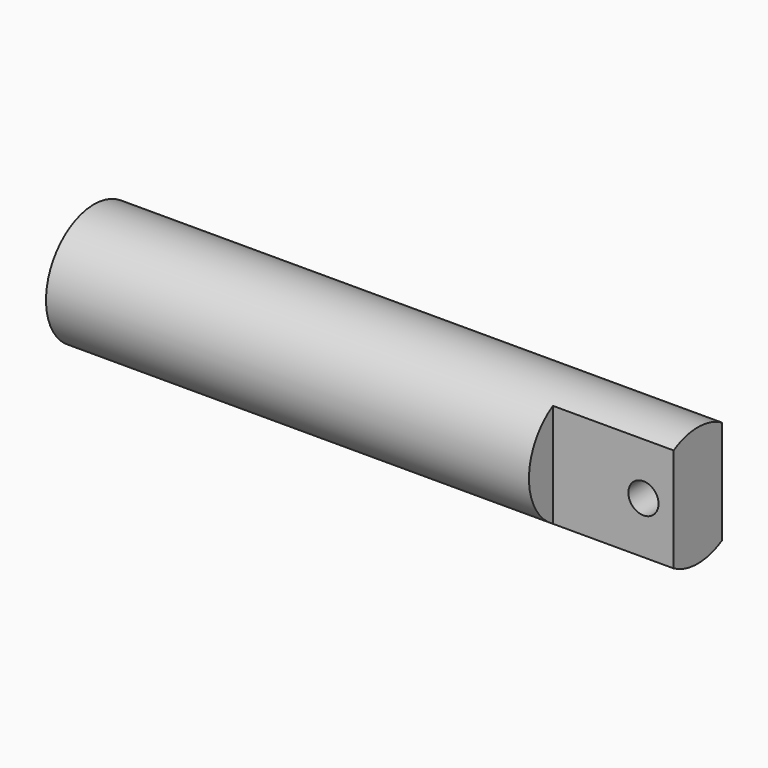
from build123d import *

# Parameters (mm, degrees)
F0_R     = 12.6365
F1_DEPTH = 63.5
F2_W     = 30.1624801215
F2_H     = 56.3562277664
F2_W_2   = 16.6687433339
F2_H_2   = 59.9281014292
F3_DEPTH = 25.4
F4_R     = 3.175
F5_DEPTH = 25.4


with BuildPart() as f1:
    # F0 (on Right) → F1 (new body, symmetric)
    with BuildSketch(Plane.YZ):
        Circle(F0_R)
    extrude(amount=F1_DEPTH, both=True)

    # F2 (on face) → F3 (cut)
    with BuildSketch(Plane.YZ.offset(63.5)):
        with Locations((21.4312400607, 1.2815551284)):
            Rectangle(F2_W, F2_H)
        with Locations((-14.684371667, 0.2893665805)):
            Rectangle(F2_W_2, F2_H_2)
    extrude(amount=-F3_DEPTH, mode=Mode.SUBTRACT)

    # F4 (on face) → F5 (cut)
    with BuildSketch(Plane.XZ.offset(6.35)):
        with Locations((57.15, 0)):
            Circle(F4_R)
    extrude(amount=-F5_DEPTH, mode=Mode.SUBTRACT)

    # F6 (on Front) → F7 (revolve, cut)
    with BuildSketch(Plane.XZ):
        with BuildLine():
            Line((-63.5, 0), (-57.15, 0))
            ThreePointArc((-57.15, 0), (-58.8514773719, 6.35), (-63.5, 10.9985226281))
            Line((-63.5, 10.9985226281), (-63.5, 0))
        make_face()
    revolve(axis=Axis((-60.325, 0, 0), (1, 0, 0)), mode=Mode.SUBTRACT)


solid = f1.part
